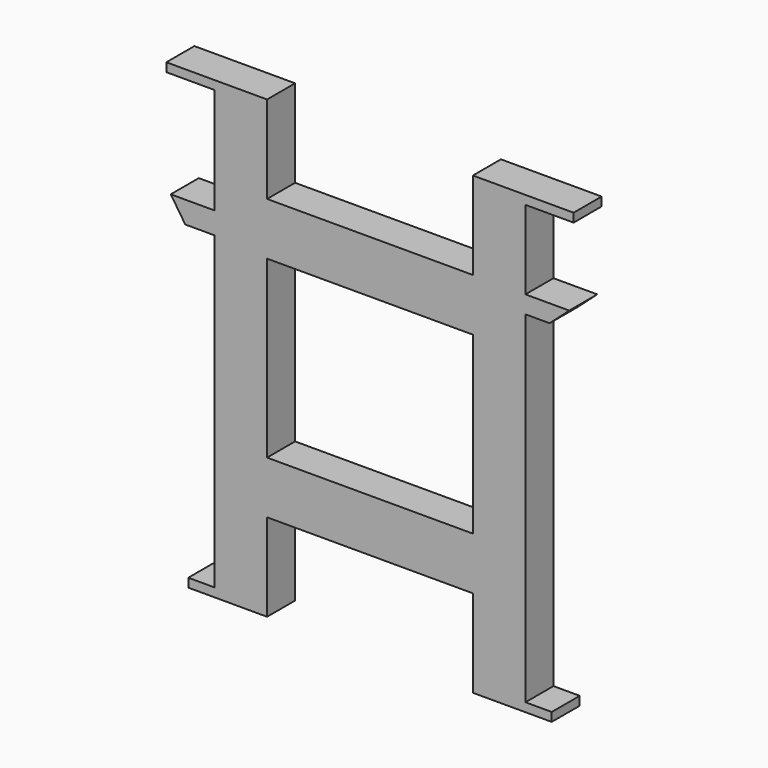
from build123d import *

# Parameters (mm, degrees)
F0_W     = 470
F0_H     = 400
F0_W_2   = 60
F0_H_2   = 20
F1_DEPTH = 80


with BuildPart() as f1:
    # F0 (on Front) → F1 (new body)
    with BuildSketch(Plane.XZ):
        Polygon((-235, 0), (-355, 0), (-465, 0), (-465, -20), (-355, -20), (-355, -262.179625), (-455, -262.179625), (-421.833752, -312.179625), (-355, -312.179625), (-355, -1020), (-355, -1040), (-235, -1040), (-235, -840), (235, -840), (235, -1040), (355, -1040), (355, -1020), (355, -240), (410.27864, -240), (455, -200), (355, -200), (355, -20), (465, -20), (465, 0), (355, 0), (235, 0), (235, -200), (-235, -200), align=None)
        with Locations((0, -520)):
            Rectangle(F0_W, F0_H, mode=Mode.SUBTRACT)
        with Locations((-385, -1030)):
            Rectangle(F0_W_2, F0_H_2)
        with Locations((385, -1030)):
            Rectangle(F0_W_2, F0_H_2)
    extrude(amount=F1_DEPTH)


solid = f1.part
